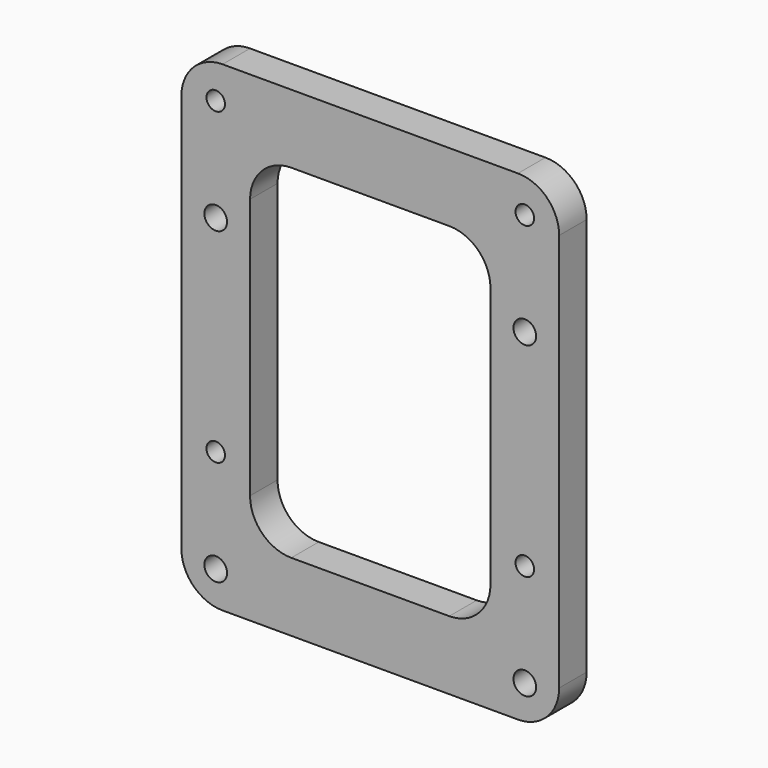
from build123d import *

# Parameters (mm, degrees)
F0_W           = 55
F0_H           = 70
F1_DEPTH       = 5
F2_D           = 3.3
F2_CSINK_D     = 6.72
F2_CSINK_ANGLE = 90
F3_D           = 2.7
F4_W           = 35
F4_H           = 50
F5_DEPTH       = 5
F6_R           = 6


with BuildPart() as f1:
    # F0 (on Front) → F1 (new body)
    with BuildSketch(Plane.XZ):
        Rectangle(F0_W, F0_H)
    extrude(amount=F1_DEPTH)

    # F2 (through all)
    with Locations(Plane(origin=(0, 0, 0), x_dir=(1, 0, 0), z_dir=(0, 1, 0))):
        with Locations((22.5, -15), (22.5, 30), (-22.5, 30), (-22.5, -15)):
            CounterSinkHole(F2_D / 2, F2_CSINK_D / 2, counter_sink_angle=F2_CSINK_ANGLE)

    # F3 (through all)
    with Locations(Plane(origin=(0, 0, 0), x_dir=(1, 0, 0), z_dir=(0, 1, 0))):
        with Locations((22.5, -30), (-22.5, -30), (-22.5, 15), (22.5, 15)):
            Hole(F3_D / 2)

    # F4 (on face) → F5 (cut, through all)
    with BuildSketch(Plane.XZ.offset(5)):
        Rectangle(F4_W, F4_H)
    extrude(amount=-F5_DEPTH, mode=Mode.SUBTRACT)

    # F6
    f6_edges = [f1.edges().sort_by_distance(p)[0] for p in [
        (-27.5, -2.5, 35),
        (-27.5, -2.5, -35),
        (27.5, -2.5, 35),
        (27.5, -2.5, -35),
        (-17.5, -2.5, -25),
        (17.5, -2.5, 25),
        (17.5, -2.5, -25),
        (-17.5, -2.5, 25),
    ]]
    fillet(f6_edges, radius=F6_R)


solid = f1.part
